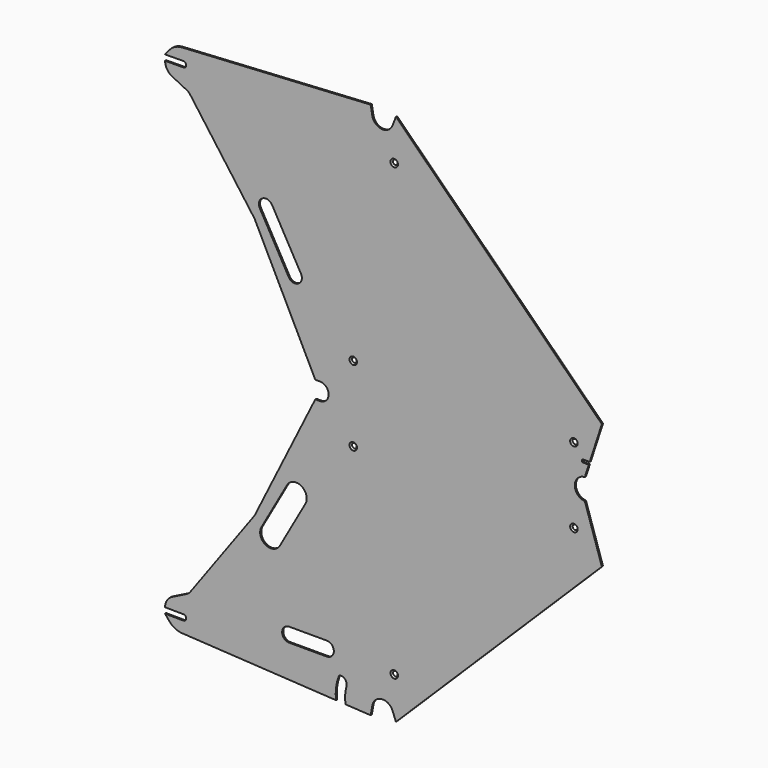
from build123d import *

# Parameters (mm, degrees)
F1_DEPTH       = 3
F2_D           = 8
F2_CSINK_D     = 16
F2_CSINK_ANGLE = 90


with BuildPart() as f1:
    # F0 (on Front) → F1 (new body)
    with BuildSketch(Plane.XZ):
        with BuildLine():
            ThreePointArc((-42.428788, 22.197763), (-22.393428, 40.636528), (0.736568, 26.269656))
            Line((0.736568, 26.269656), (7.82161, 7.734496))
            Line((7.82161, 7.734496), (445.831745, 440.866256))
            Line((445.831745, 440.866256), (409.571118, 551.809463))
            ThreePointArc((409.571118, 551.809463), (403.393924, 553.012383), (397.791506, 555.879027))
            Line((397.791506, 555.879027), (-153.711431, 555.879027))
            Line((-153.711431, 555.879027), (-163.711431, 555.879027))
            Line((-163.711431, 555.879027), (-176.433934, 530.299822))
            Line((-176.433934, 530.299822), (-292.672837, 296.595913))
            Line((-292.672837, 296.595913), (-429.805557, 108.635613))
            ThreePointArc((-429.805557, 108.635613), (-433.055197, 105.145969), (-437.038546, 102.524765))
            Line((-437.038546, 102.524765), (-467.979575, 87.098137))
            ThreePointArc((-467.979575, 87.098137), (-479.031049, 77.063624), (-483.216559, 62.73505))
            Line((-483.216559, 62.73505), (-444.218322, 62.364245))
            ThreePointArc((-444.218322, 62.364245), (-439.992581, 60.566627), (-438.27564, 56.307469))
            ThreePointArc((-438.27564, 56.307469), (-440.073258, 52.081729), (-444.332415, 50.364787))
            Line((-444.332415, 50.364787), (-483.330653, 50.735592))
            Line((-483.330653, 50.735592), (-473.742625, 39.200006))
            ThreePointArc((-473.742625, 39.200006), (-462.016917, 29.862605), (-447.542263, 25.968544))
            Line((-447.542263, 25.968544), (-119.640526, 6.942116))
            ThreePointArc((-119.640526, 6.942116), (-119.539343, 30.38703), (-113.982147, 53.164032))
            ThreePointArc((-113.982147, 53.164032), (-112.028876, 55.605369), (-109.00742, 56.409233))
            Line((-109.00742, 56.409233), (-91.138541, 55.372396))
            ThreePointArc((-91.138541, 55.372396), (-94.609764, 47.818656), (-97.278364, 39.945477))
            ThreePointArc((-97.278364, 39.945477), (-100.140537, 22.963258), (-99.30184, 5.761968))
            Line((-99.30184, 5.761968), (-45.922757, 2.664658))
            Line((-45.922757, 2.664658), (-42.428788, 22.197763))
        make_face()
        with BuildLine():
            ThreePointArc((-219.185589, 82.205842), (-234.185589, 97.205842), (-219.185589, 112.205842))
            Line((-219.185589, 112.205842), (-139.185589, 112.205842))
            ThreePointArc((-139.185589, 112.205842), (-124.185589, 97.205842), (-139.185589, 82.205842))
            Line((-139.185589, 82.205842), (-219.185589, 82.205842))
        make_face(mode=Mode.SUBTRACT)
        with BuildLine():
            ThreePointArc((-238.884885, 257.620199), (-269.539195, 249.087128), (-278.072266, 279.741438))
            Line((-278.072266, 279.741438), (-223.998126, 375.532812))
            ThreePointArc((-223.998126, 375.532812), (-193.343817, 384.065883), (-184.810746, 353.411573))
            Line((-184.810746, 353.411573), (-238.884885, 257.620199))
        make_face(mode=Mode.SUBTRACT)
        with BuildLine():
            ThreePointArc((-109.00742, 56.409233), (-99.197738, 50.987949), (-97.278364, 39.945477))
            ThreePointArc((-97.278364, 39.945477), (-94.609764, 47.818656), (-91.138541, 55.372396))
            Line((-91.138541, 55.372396), (-109.00742, 56.409233))
        make_face()
        with BuildLine():
            Line((-153.711431, 555.879027), (397.791506, 555.879027))
            ThreePointArc((397.791506, 555.879027), (388.241023, 574.279027), (397.791506, 592.679027))
            Line((397.791506, 592.679027), (-153.711431, 592.679027))
            ThreePointArc((-153.711431, 592.679027), (-135.311431, 574.279027), (-153.711431, 555.879027))
        make_face()
        with BuildLine():
            Line((-153.711431, 592.679027), (397.791506, 592.679027))
            ThreePointArc((397.791506, 592.679027), (403.393924, 595.545671), (409.571118, 596.748591))
            Line((409.571118, 596.748591), (418.046209, 622.679027))
            Line((418.046209, 622.679027), (406.046209, 622.679027))
            ThreePointArc((406.046209, 622.679027), (403.924889, 623.557707), (403.046209, 625.679027))
            ThreePointArc((403.046209, 625.679027), (403.924889, 627.800347), (406.046209, 628.679027))
            Line((406.046209, 628.679027), (420.007247, 628.679027))
            Line((420.007247, 628.679027), (445.831745, 707.691799))
            Line((445.831745, 707.691799), (7.82161, 1140.823559))
            Line((7.82161, 1140.823559), (0.736568, 1122.288398))
            ThreePointArc((0.736568, 1122.288398), (-22.393428, 1107.921526), (-42.428788, 1126.360291))
            Line((-42.428788, 1126.360291), (-45.922757, 1145.893396))
            Line((-45.922757, 1145.893396), (-447.542263, 1122.58951))
            ThreePointArc((-447.542263, 1122.58951), (-462.016917, 1118.695449), (-473.742625, 1109.358048))
            Line((-473.742625, 1109.358048), (-483.330653, 1097.822462))
            Line((-483.330653, 1097.822462), (-444.332415, 1098.193267))
            ThreePointArc((-444.332415, 1098.193267), (-440.073258, 1096.476326), (-438.27564, 1092.250585))
            ThreePointArc((-438.27564, 1092.250585), (-439.992581, 1087.991428), (-444.218322, 1086.19381))
            Line((-444.218322, 1086.19381), (-483.216559, 1085.823005))
            ThreePointArc((-483.216559, 1085.823005), (-479.031049, 1071.494431), (-467.979575, 1061.459917))
            Line((-467.979575, 1061.459917), (-437.038546, 1046.033289))
            ThreePointArc((-437.038546, 1046.033289), (-433.055197, 1043.412085), (-429.805557, 1039.922441))
            Line((-429.805557, 1039.922441), (-292.672837, 851.962142))
            Line((-292.672837, 851.962142), (-178.632735, 622.679027))
            Line((-178.632735, 622.679027), (-176.433934, 618.258232))
            Line((-176.433934, 618.258232), (-163.711431, 592.679027))
            Line((-163.711431, 592.679027), (-153.711431, 592.679027))
        make_face()
        with BuildLine():
            ThreePointArc((-281.759139, 875.347847), (-276.070425, 895.784053), (-255.634219, 890.095339))
            Line((-255.634219, 890.095339), (-194.186333, 781.241505))
            ThreePointArc((-194.186333, 781.241505), (-199.875047, 760.805298), (-220.311253, 766.494012))
            Line((-220.311253, 766.494012), (-281.759139, 875.347847))
        make_face(mode=Mode.SUBTRACT)
    extrude(amount=-F1_DEPTH)

    # F2 (through all)
    with Locations(Plane.XZ):
        with Locations((386.357424, 494.079027), (-83.001788, 494.079027), (4.204936, 95.571513), (-83.001788, 654.479027), (4.204936, 1052.986541), (386.357424, 654.479027)):
            CounterSinkHole(F2_D / 2, F2_CSINK_D / 2, counter_sink_angle=F2_CSINK_ANGLE)


solid = f1.part
